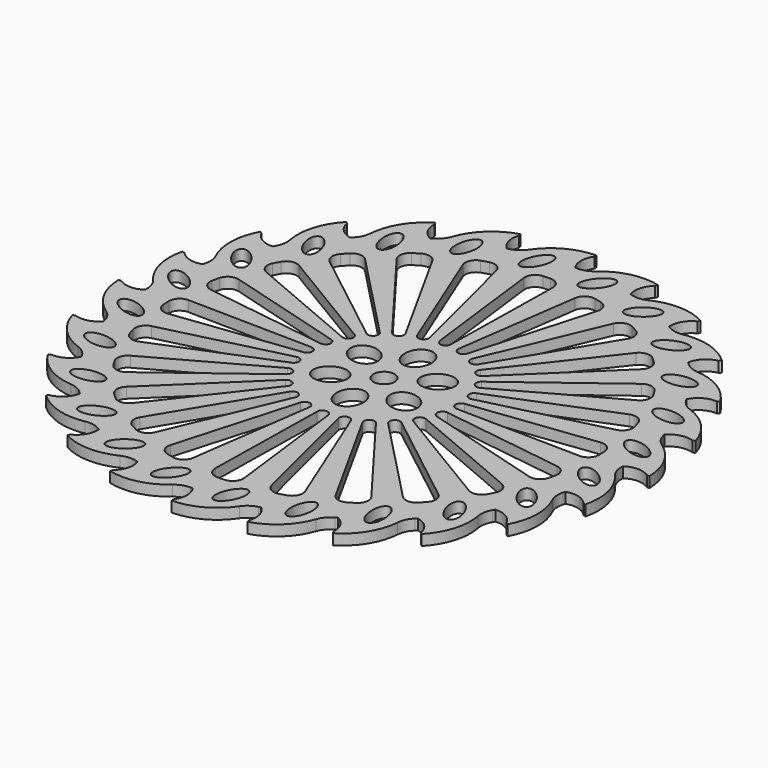
from build123d import *

# Parameters (mm, degrees)
F0_R      = 50
F1_DEPTH  = 2
F2_R      = 2
F3_DEPTH  = 4
F4_R      = 50
F5_DEPTH  = 2
F7_DEPTH  = 25
F9_DEPTH  = 25
F11_DEPTH = 25


with BuildPart() as f1:
    # F0 (on Top) → F1 (new body)
    with BuildSketch(Plane.XY):
        Circle(F0_R)
    extrude(amount=F1_DEPTH)

    # F2 (on Top) → F3 (join)
    with BuildSketch(Plane.XY):
        with BuildLine():
            Line((0, 49.5), (0, 50))
            ThreePointArc((0, 50), (-5.0415435576, 48.6856723741), (-8.9127772699, 45.1988158964))
            ThreePointArc((-8.9127772699, 45.1988158964), (-9.919005248, 44.1787587407), (-11.2201616661, 43.5787559734))
            ThreePointArc((-11.2201616661, 43.5787559734), (-11.4336467176, 43.5232319887), (-11.6468570296, 43.466662183))
            ThreePointArc((-11.6468570296, 43.466662183), (-12.8984037846, 45.4606826466), (-12.8115427326, 47.8133284013))
            Line((-12.8115427326, 47.8133284013), (-12.9409522551, 48.2962913145))
            ThreePointArc((-12.9409522551, 48.2962913145), (-17.4705363607, 45.721900827), (-20.307396119, 41.3519070898))
            ThreePointArc((-20.307396119, 41.3519070898), (-21.0153274912, 40.1061765743), (-22.1168559362, 39.1898543439))
            ThreePointArc((-22.1168559362, 39.1898543439), (-22.3086959962, 39.0809682959), (-22.5, 38.9711431703))
            ThreePointArc((-22.5, 38.9711431703), (-24.2249918058, 40.5732948982), (-24.75, 42.8682574873))
            Line((-24.75, 42.8682574873), (-25, 43.3012701892))
            ThreePointArc((-25, 43.3012701892), (-28.7089409822, 39.6422572975), (-30.3180994822, 34.6869341523))
            ThreePointArc((-30.3180994822, 34.6869341523), (-30.6794898954, 33.3004247531), (-31.5063230241, 32.1302289052))
            ThreePointArc((-31.5063230241, 32.1302289052), (-31.6634445096, 31.9754011982), (-31.8198051534, 31.8198051534))
            ThreePointArc((-31.8198051534, 31.8198051534), (-33.9006866691, 32.9209041531), (-35.0017856687, 35.0017856687))
            Line((-35.0017856687, 35.0017856687), (-35.3553390593, 35.3553390593))
            ThreePointArc((-35.3553390593, 35.3553390593), (-37.9908787196, 30.8610594451), (-38.2626744687, 25.6581039752))
            ThreePointArc((-38.2626744687, 25.6581039752), (-38.2528957634, 24.2253040164), (-38.7486862645, 22.8809814643))
            ThreePointArc((-38.7486862645, 22.8809814643), (-38.860381606, 22.6907633507), (-38.9711431703, 22.5))
            ThreePointArc((-38.9711431703, 22.5), (-41.2661057594, 23.0250081942), (-42.8682574873, 24.75))
            Line((-42.8682574873, 24.75), (-43.3012701892, 25))
            ThreePointArc((-43.3012701892, 25), (-44.6838008551, 19.9767313919), (-43.5997114222, 14.8807164142))
            ThreePointArc((-43.5997114222, 14.8807164142), (-43.2194300011, 13.4992688453), (-43.3503905713, 12.0724329493))
            ThreePointArc((-43.3503905713, 12.0724329493), (-43.4090479158, 11.859787479), (-43.466662183, 11.6468570296))
            ThreePointArc((-43.466662183, 11.6468570296), (-45.8193079377, 11.5599959776), (-47.8133284013, 12.8115427326))
            Line((-47.8133284013, 12.8115427326), (-48.2962913145, 12.9409522551))
            ThreePointArc((-48.2962913145, 12.9409522551), (-48.3315958058, 7.7310221074), (-45.9655000942, 3.0892326211))
            ThreePointArc((-45.9655000942, 3.0892326211), (-45.2406315077, 1.8532808109), (-44.9978374005, 0.4411680794))
            ThreePointArc((-44.9978374005, 0.4411680794), (-44.9994593469, 0.2205866899), (-45, 0))
            ThreePointArc((-45, 0), (-47.25, -0.6928108612), (-49.5, 0))
            Line((-49.5, 0), (-50, 0))
            ThreePointArc((-50, 0), (-48.6856723741, -5.0415435576), (-45.1988158964, -8.9127772699))
            ThreePointArc((-45.1988158964, -8.9127772699), (-44.1787587407, -9.919005248), (-43.5787559734, -11.2201616661))
            ThreePointArc((-43.5787559734, -11.2201616661), (-43.5232319887, -11.4336467176), (-43.466662183, -11.6468570296))
            ThreePointArc((-43.466662183, -11.6468570296), (-45.4606826466, -12.8984037846), (-47.8133284013, -12.8115427326))
            Line((-47.8133284013, -12.8115427326), (-48.2962913145, -12.9409522551))
            ThreePointArc((-48.2962913145, -12.9409522551), (-45.721900827, -17.4705363607), (-41.3519070898, -20.307396119))
            ThreePointArc((-41.3519070898, -20.307396119), (-40.1061765743, -21.0153274912), (-39.1898543439, -22.1168559362))
            ThreePointArc((-39.1898543439, -22.1168559362), (-39.0809682959, -22.3086959962), (-38.9711431703, -22.5))
            ThreePointArc((-38.9711431703, -22.5), (-40.5732948982, -24.2249918058), (-42.8682574873, -24.75))
            Line((-42.8682574873, -24.75), (-43.3012701892, -25))
            ThreePointArc((-43.3012701892, -25), (-39.6422572975, -28.7089409822), (-34.6869341523, -30.3180994822))
            ThreePointArc((-34.6869341523, -30.3180994822), (-33.3004247531, -30.6794898954), (-32.1302289052, -31.5063230241))
            ThreePointArc((-32.1302289052, -31.5063230241), (-31.9754011982, -31.6634445096), (-31.8198051534, -31.8198051534))
            ThreePointArc((-31.8198051534, -31.8198051534), (-32.9209041531, -33.9006866691), (-35.0017856687, -35.0017856687))
            Line((-35.0017856687, -35.0017856687), (-35.3553390593, -35.3553390593))
            ThreePointArc((-35.3553390593, -35.3553390593), (-30.8610594451, -37.9908787196), (-25.6581039752, -38.2626744687))
            ThreePointArc((-25.6581039752, -38.2626744687), (-24.2253040164, -38.2528957634), (-22.8809814643, -38.7486862645))
            ThreePointArc((-22.8809814643, -38.7486862645), (-22.6907633507, -38.860381606), (-22.5, -38.9711431703))
            ThreePointArc((-22.5, -38.9711431703), (-23.0250081942, -41.2661057594), (-24.75, -42.8682574873))
            Line((-24.75, -42.8682574873), (-25, -43.3012701892))
            ThreePointArc((-25, -43.3012701892), (-19.9767313919, -44.6838008551), (-14.8807164142, -43.5997114222))
            ThreePointArc((-14.8807164142, -43.5997114222), (-13.4992688453, -43.2194300011), (-12.0724329493, -43.3503905713))
            ThreePointArc((-12.0724329493, -43.3503905713), (-11.859787479, -43.4090479158), (-11.6468570296, -43.466662183))
            ThreePointArc((-11.6468570296, -43.466662183), (-11.5599959776, -45.8193079377), (-12.8115427326, -47.8133284013))
            Line((-12.8115427326, -47.8133284013), (-12.9409522551, -48.2962913145))
            ThreePointArc((-12.9409522551, -48.2962913145), (-7.7310221074, -48.3315958058), (-3.0892326211, -45.9655000942))
            ThreePointArc((-3.0892326211, -45.9655000942), (-1.8532808109, -45.2406315077), (-0.4411680794, -44.9978374005))
            ThreePointArc((-0.4411680794, -44.9978374005), (-0.2205866899, -44.9994593469), (0, -45))
            ThreePointArc((0, -45), (0.6928108612, -47.25), (0, -49.5))
            Line((0, -49.5), (0, -50))
            ThreePointArc((0, -50), (5.0415435576, -48.6856723741), (8.9127772699, -45.1988158964))
            ThreePointArc((8.9127772699, -45.1988158964), (9.919005248, -44.1787587407), (11.2201616661, -43.5787559734))
            ThreePointArc((11.2201616661, -43.5787559734), (11.4336467176, -43.5232319887), (11.6468570296, -43.466662183))
            ThreePointArc((11.6468570296, -43.466662183), (12.8984037846, -45.4606826466), (12.8115427326, -47.8133284013))
            Line((12.8115427326, -47.8133284013), (12.9409522551, -48.2962913145))
            ThreePointArc((12.9409522551, -48.2962913145), (17.4705363607, -45.721900827), (20.307396119, -41.3519070898))
            ThreePointArc((20.307396119, -41.3519070898), (21.0153274912, -40.1061765743), (22.1168559362, -39.1898543439))
            ThreePointArc((22.1168559362, -39.1898543439), (22.3086959962, -39.0809682959), (22.5, -38.9711431703))
            ThreePointArc((22.5, -38.9711431703), (24.2249918058, -40.5732948982), (24.75, -42.8682574873))
            Line((24.75, -42.8682574873), (25, -43.3012701892))
            ThreePointArc((25, -43.3012701892), (28.7089409822, -39.6422572975), (30.3180994822, -34.6869341523))
            ThreePointArc((30.3180994822, -34.6869341523), (30.6794898954, -33.3004247531), (31.5063230241, -32.1302289052))
            ThreePointArc((31.5063230241, -32.1302289052), (31.6634445096, -31.9754011982), (31.8198051534, -31.8198051534))
            ThreePointArc((31.8198051534, -31.8198051534), (33.9006866691, -32.9209041531), (35.0017856687, -35.0017856687))
            Line((35.0017856687, -35.0017856687), (35.3553390593, -35.3553390593))
            ThreePointArc((35.3553390593, -35.3553390593), (37.9908787196, -30.8610594451), (38.2626744687, -25.6581039752))
            ThreePointArc((38.2626744687, -25.6581039752), (38.2528957634, -24.2253040164), (38.7486862645, -22.8809814643))
            ThreePointArc((38.7486862645, -22.8809814643), (38.860381606, -22.6907633507), (38.9711431703, -22.5))
            ThreePointArc((38.9711431703, -22.5), (41.2661057594, -23.0250081942), (42.8682574873, -24.75))
            Line((42.8682574873, -24.75), (43.3012701892, -25))
            ThreePointArc((43.3012701892, -25), (44.6838008551, -19.9767313919), (43.5997114222, -14.8807164142))
            ThreePointArc((43.5997114222, -14.8807164142), (43.2194300011, -13.4992688453), (43.3503905713, -12.0724329493))
            ThreePointArc((43.3503905713, -12.0724329493), (43.4090479158, -11.859787479), (43.466662183, -11.6468570296))
            ThreePointArc((43.466662183, -11.6468570296), (45.8193079377, -11.5599959776), (47.8133284013, -12.8115427326))
            Line((47.8133284013, -12.8115427326), (48.2962913145, -12.9409522551))
            ThreePointArc((48.2962913145, -12.9409522551), (48.3315958058, -7.7310221074), (45.9655000942, -3.0892326211))
            ThreePointArc((45.9655000942, -3.0892326211), (45.2406315077, -1.8532808109), (44.9978374005, -0.4411680794))
            ThreePointArc((44.9978374005, -0.4411680794), (44.9994593469, -0.2205866899), (45, 0))
            ThreePointArc((45, 0), (47.25, 0.6928108612), (49.5, 0))
            Line((49.5, 0), (50, 0))
            ThreePointArc((50, 0), (48.6856723741, 5.0415435576), (45.1988158964, 8.9127772699))
            ThreePointArc((45.1988158964, 8.9127772699), (44.1787587407, 9.919005248), (43.5787559734, 11.2201616661))
            ThreePointArc((43.5787559734, 11.2201616661), (43.5232319887, 11.4336467176), (43.466662183, 11.6468570296))
            ThreePointArc((43.466662183, 11.6468570296), (45.4606826466, 12.8984037846), (47.8133284013, 12.8115427326))
            Line((47.8133284013, 12.8115427326), (48.2962913145, 12.9409522551))
            ThreePointArc((48.2962913145, 12.9409522551), (45.721900827, 17.4705363607), (41.3519070898, 20.307396119))
            ThreePointArc((41.3519070898, 20.307396119), (40.1061765743, 21.0153274912), (39.1898543439, 22.1168559362))
            ThreePointArc((39.1898543439, 22.1168559362), (39.0809682959, 22.3086959962), (38.9711431703, 22.5))
            ThreePointArc((38.9711431703, 22.5), (40.5732948982, 24.2249918058), (42.8682574873, 24.75))
            Line((42.8682574873, 24.75), (43.3012701892, 25))
            ThreePointArc((43.3012701892, 25), (39.6422572975, 28.7089409822), (34.6869341523, 30.3180994822))
            ThreePointArc((34.6869341523, 30.3180994822), (33.3004247531, 30.6794898954), (32.1302289052, 31.5063230241))
            ThreePointArc((32.1302289052, 31.5063230241), (31.9754011982, 31.6634445096), (31.8198051534, 31.8198051534))
            ThreePointArc((31.8198051534, 31.8198051534), (32.9209041531, 33.9006866691), (35.0017856687, 35.0017856687))
            Line((35.0017856687, 35.0017856687), (35.3553390593, 35.3553390593))
            ThreePointArc((35.3553390593, 35.3553390593), (30.8610594451, 37.9908787196), (25.6581039752, 38.2626744687))
            ThreePointArc((25.6581039752, 38.2626744687), (24.2253040164, 38.2528957634), (22.8809814643, 38.7486862645))
            ThreePointArc((22.8809814643, 38.7486862645), (22.6907633507, 38.860381606), (22.5, 38.9711431703))
            ThreePointArc((22.5, 38.9711431703), (23.0250081942, 41.2661057594), (24.75, 42.8682574873))
            Line((24.75, 42.8682574873), (25, 43.3012701892))
            ThreePointArc((25, 43.3012701892), (19.9767313919, 44.6838008551), (14.8807164142, 43.5997114222))
            ThreePointArc((14.8807164142, 43.5997114222), (13.4992688453, 43.2194300011), (12.0724329493, 43.3503905713))
            ThreePointArc((12.0724329493, 43.3503905713), (11.859787479, 43.4090479158), (11.6468570296, 43.466662183))
            ThreePointArc((11.6468570296, 43.466662183), (11.5599959776, 45.8193079377), (12.8115427326, 47.8133284013))
            Line((12.8115427326, 47.8133284013), (12.9409522551, 48.2962913145))
            ThreePointArc((12.9409522551, 48.2962913145), (7.7310221074, 48.3315958058), (3.0892326211, 45.9655000942))
            ThreePointArc((3.0892326211, 45.9655000942), (1.8532808109, 45.2406315077), (0.4411680794, 44.9978374005))
            ThreePointArc((0.4411680794, 44.9978374005), (0.2205866899, 44.9994593469), (0, 45))
            ThreePointArc((0, 45), (-0.6928108612, 47.25), (0, 49.5))
        make_face()
        Circle(F2_R, mode=Mode.SUBTRACT)
    extrude(amount=F3_DEPTH)

    # F4 (on face) → F5 (cut)
    with BuildSketch(Plane(origin=(0, 0, 0), x_dir=(1, 0, 0), z_dir=(0, 0, -1))):
        Circle(F4_R)
    extrude(amount=-F5_DEPTH, mode=Mode.SUBTRACT)

    # F6 (on face) → F7 (cut)
    with BuildSketch(Plane.XY.offset(4)):
        with BuildLine():
            ThreePointArc((-1.9708007397, 39.9514198051), (-3.4023744892, 39.2417742011), (-3.857353006, 37.710110128))
            Line((-3.857353006, 37.710110128), (-0.9925461516, 14.3781306566))
            ThreePointArc((-0.9925461516, 14.3781306566), (0.0523359562, 13.5013704652), (0.9998476952, 14.4825475936))
            Line((0.9998476952, 14.4825475936), (1.4096571241, 37.9605140537))
            ThreePointArc((1.4096571241, 37.9605140537), (0.8255360657, 39.4082703488), (-0.6210929118, 39.9951777543))
            ThreePointArc((-0.6210929118, 39.9951777543), (-1.2961314998, 39.9789950241), (-1.9708007397, 39.9514198051))
        make_face()
        with BuildLine():
            ThreePointArc((-10.9514433991, 38.4716244455), (-11.5992922062, 38.2812802857), (-12.2438356574, 38.0800274211))
            ThreePointArc((-12.2438356574, 38.0800274211), (-13.4429599167, 37.0240438539), (-13.4860115837, 35.4268128632))
            Line((-13.4860115837, 35.4268128632), (-4.6800600086, 13.6313178878))
            ThreePointArc((-4.6800600086, 13.6313178878), (-3.4438591596, 13.0548679649), (-2.7825804277, 14.2478463768))
            Line((-2.7825804277, 14.2478463768), (-8.4632797766, 37.0318870144))
            ThreePointArc((-8.4632797766, 37.0318870144), (-9.4022042945, 38.2791305555), (-10.9514433991, 38.4716244455))
        make_face()
        with BuildLine():
            ThreePointArc((-20.5354711169, 34.3262935082), (-21.1119803175, 33.9747595587), (-21.682473409, 33.6135440986))
            ThreePointArc((-21.682473409, 33.6135440986), (-22.5674298414, 32.2831861031), (-22.1956207586, 30.7292368474))
            Line((-22.1956207586, 30.7292368474), (-8.04863551, 11.9555533317))
            ThreePointArc((-8.04863551, 11.9555533317), (-6.705360965, 11.7186977869), (-6.3753802929, 13.0421779751))
            Line((-6.3753802929, 13.0421779751), (-17.7594581467, 33.5795980732))
            ThreePointArc((-17.7594581467, 33.5795980732), (-18.9891999698, 34.5413312741), (-20.5354711169, 34.3262935082))
        make_face()
        with BuildLine():
            ThreePointArc((-28.7200404145, 27.8416823951), (-29.1859218594, 27.3529151137), (-29.6434864297, 26.8563532948))
            ThreePointArc((-29.6434864297, 26.8563532948), (-30.1539667168, 25.3422825699), (-29.3926350588, 23.9375141228))
            Line((-29.3926350588, 23.9375141228), (-10.8687098025, 9.4650375736))
            ThreePointArc((-10.8687098025, 9.4650375736), (-9.5099035017, 9.5839177208), (-9.5337085269, 10.9477066977))
            Line((-9.5337085269, 10.9477066977), (-25.8453587931, 27.8389150163))
            ThreePointArc((-25.8453587931, 27.8389150163), (-27.2821130483, 28.4495973486), (-28.7200404145, 27.8416823951))
        make_face()
        with BuildLine():
            ThreePointArc((-34.94738642, 19.4597066374), (-35.2708910585, 18.8670147066), (-35.5843448384, 18.2689463961))
            ThreePointArc((-35.5843448384, 18.2689463961), (-35.6855605923, 16.6743443597), (-34.5865898534, 15.5144893694))
            Line((-34.5865898534, 15.5144893694), (-12.9480994834, 6.3294951465))
            ThreePointArc((-12.9480994834, 6.3294951465), (-11.6663618307, 6.7960095003), (-12.04233028, 8.1071673007))
            Line((-12.04233028, 8.1071673007), (-32.1699409491, 20.2010559069))
            ThreePointArc((-32.1699409491, 20.2010559069), (-33.7157952084, 20.419070379), (-34.94738642, 19.4597066374))
        make_face()
        with BuildLine():
            ThreePointArc((-38.7931257942, 9.751584031), (-38.9522073199, 9.0953584264), (-39.1001889522, 8.4365409915))
            ThreePointArc((-39.1001889522, 8.4365409915), (-38.7852424866, 6.870077137), (-37.4235257065, 6.0341778044))
            Line((-37.4235257065, 6.0341778044), (-14.1450975822, 2.7626080852))
            ThreePointArc((-14.1450975822, 2.7626080852), (-13.0277768805, 3.5449644632), (-13.7302871254, 4.7141378499))
            Line((-13.7302871254, 4.7141378499), (-36.3021947929, 11.1865282214))
            ThreePointArc((-36.3021947929, 11.1865282214), (-37.8518016431, 10.9970175072), (-38.7931257942, 9.751584031))
        make_face()
        with BuildLine():
            ThreePointArc((-39.9951777543, -0.6210929118), (-39.9789950241, -1.2961314998), (-39.9514198051, -1.9708007397))
            ThreePointArc((-39.9514198051, -1.9708007397), (-39.2417742011, -3.4023744892), (-37.710110128, -3.857353006))
            Line((-37.710110128, -3.857353006), (-14.3781306566, -0.9925461516))
            ThreePointArc((-14.3781306566, -0.9925461516), (-13.5013704652, 0.0523359562), (-14.4825475936, 0.9998476952))
            Line((-14.4825475936, 0.9998476952), (-37.9605140537, 1.4096571241))
            ThreePointArc((-37.9605140537, 1.4096571241), (-39.4082703488, 0.8255360657), (-39.9951777543, -0.6210929118))
        make_face()
        with BuildLine():
            ThreePointArc((-38.4716244455, -10.9514433991), (-38.2812802857, -11.5992922062), (-38.0800274211, -12.2438356574))
            ThreePointArc((-38.0800274211, -12.2438356574), (-37.0240438539, -13.4429599167), (-35.4268128632, -13.4860115837))
            Line((-35.4268128632, -13.4860115837), (-13.6313178878, -4.6800600086))
            ThreePointArc((-13.6313178878, -4.6800600086), (-13.0548679649, -3.4438591596), (-14.2478463768, -2.7825804277))
            Line((-14.2478463768, -2.7825804277), (-37.0318870144, -8.4632797766))
            ThreePointArc((-37.0318870144, -8.4632797766), (-38.2791305555, -9.4022042945), (-38.4716244455, -10.9514433991))
        make_face()
        with BuildLine():
            ThreePointArc((-34.3262935082, -20.5354711169), (-33.9747595587, -21.1119803175), (-33.6135440986, -21.682473409))
            ThreePointArc((-33.6135440986, -21.682473409), (-32.2831861031, -22.5674298414), (-30.7292368474, -22.1956207586))
            Line((-30.7292368474, -22.1956207586), (-11.9555533317, -8.04863551))
            ThreePointArc((-11.9555533317, -8.04863551), (-11.7186977869, -6.705360965), (-13.0421779751, -6.3753802929))
            Line((-13.0421779751, -6.3753802929), (-33.5795980732, -17.7594581467))
            ThreePointArc((-33.5795980732, -17.7594581467), (-34.5413312741, -18.9891999698), (-34.3262935082, -20.5354711169))
        make_face()
        with BuildLine():
            ThreePointArc((-27.8416823951, -28.7200404145), (-27.3529151137, -29.1859218594), (-26.8563532948, -29.6434864297))
            ThreePointArc((-26.8563532948, -29.6434864297), (-25.3422825699, -30.1539667168), (-23.9375141228, -29.3926350588))
            Line((-23.9375141228, -29.3926350588), (-9.4650375736, -10.8687098025))
            ThreePointArc((-9.4650375736, -10.8687098025), (-9.5839177208, -9.5099035017), (-10.9477066977, -9.5337085269))
            Line((-10.9477066977, -9.5337085269), (-27.8389150163, -25.8453587931))
            ThreePointArc((-27.8389150163, -25.8453587931), (-28.4495973486, -27.2821130483), (-27.8416823951, -28.7200404145))
        make_face()
        with BuildLine():
            ThreePointArc((-19.4597066374, -34.94738642), (-18.8670147066, -35.2708910585), (-18.2689463961, -35.5843448384))
            ThreePointArc((-18.2689463961, -35.5843448384), (-16.6743443597, -35.6855605923), (-15.5144893694, -34.5865898534))
            Line((-15.5144893694, -34.5865898534), (-6.3294951465, -12.9480994834))
            ThreePointArc((-6.3294951465, -12.9480994834), (-6.7960095003, -11.6663618307), (-8.1071673007, -12.04233028))
            Line((-8.1071673007, -12.04233028), (-20.2010559069, -32.1699409491))
            ThreePointArc((-20.2010559069, -32.1699409491), (-20.419070379, -33.7157952084), (-19.4597066374, -34.94738642))
        make_face()
        with BuildLine():
            ThreePointArc((-9.751584031, -38.7931257942), (-9.0953584264, -38.9522073199), (-8.4365409915, -39.1001889522))
            ThreePointArc((-8.4365409915, -39.1001889522), (-6.870077137, -38.7852424866), (-6.0341778044, -37.4235257065))
            Line((-6.0341778044, -37.4235257065), (-2.7626080852, -14.1450975822))
            ThreePointArc((-2.7626080852, -14.1450975822), (-3.5449644632, -13.0277768805), (-4.7141378499, -13.7302871254))
            Line((-4.7141378499, -13.7302871254), (-11.1865282214, -36.3021947929))
            ThreePointArc((-11.1865282214, -36.3021947929), (-10.9970175072, -37.8518016431), (-9.751584031, -38.7931257942))
        make_face()
        with BuildLine():
            ThreePointArc((0.6210929118, -39.9951777543), (1.2961314998, -39.9789950241), (1.9708007397, -39.9514198051))
            ThreePointArc((1.9708007397, -39.9514198051), (3.4023744892, -39.2417742011), (3.857353006, -37.710110128))
            Line((3.857353006, -37.710110128), (0.9925461516, -14.3781306566))
            ThreePointArc((0.9925461516, -14.3781306566), (-0.0523359562, -13.5013704652), (-0.9998476952, -14.4825475936))
            Line((-0.9998476952, -14.4825475936), (-1.4096571241, -37.9605140537))
            ThreePointArc((-1.4096571241, -37.9605140537), (-0.8255360657, -39.4082703488), (0.6210929118, -39.9951777543))
        make_face()
        with BuildLine():
            ThreePointArc((10.9514433991, -38.4716244455), (11.5992922062, -38.2812802857), (12.2438356574, -38.0800274211))
            ThreePointArc((12.2438356574, -38.0800274211), (13.4429599167, -37.0240438539), (13.4860115837, -35.4268128632))
            Line((13.4860115837, -35.4268128632), (4.6800600086, -13.6313178878))
            ThreePointArc((4.6800600086, -13.6313178878), (3.4438591596, -13.0548679649), (2.7825804277, -14.2478463768))
            Line((2.7825804277, -14.2478463768), (8.4632797766, -37.0318870144))
            ThreePointArc((8.4632797766, -37.0318870144), (9.4022042945, -38.2791305555), (10.9514433991, -38.4716244455))
        make_face()
        with BuildLine():
            ThreePointArc((20.5354711169, -34.3262935082), (21.1119803175, -33.9747595587), (21.682473409, -33.6135440986))
            ThreePointArc((21.682473409, -33.6135440986), (22.5674298414, -32.2831861031), (22.1956207586, -30.7292368474))
            Line((22.1956207586, -30.7292368474), (8.04863551, -11.9555533317))
            ThreePointArc((8.04863551, -11.9555533317), (6.705360965, -11.7186977869), (6.3753802929, -13.0421779751))
            Line((6.3753802929, -13.0421779751), (17.7594581467, -33.5795980732))
            ThreePointArc((17.7594581467, -33.5795980732), (18.9891999698, -34.5413312741), (20.5354711169, -34.3262935082))
        make_face()
        with BuildLine():
            ThreePointArc((28.7200404145, -27.8416823951), (29.1859218594, -27.3529151137), (29.6434864297, -26.8563532948))
            ThreePointArc((29.6434864297, -26.8563532948), (30.1539667168, -25.3422825699), (29.3926350588, -23.9375141228))
            Line((29.3926350588, -23.9375141228), (10.8687098025, -9.4650375736))
            ThreePointArc((10.8687098025, -9.4650375736), (9.5099035017, -9.5839177208), (9.5337085269, -10.9477066977))
            Line((9.5337085269, -10.9477066977), (25.8453587931, -27.8389150163))
            ThreePointArc((25.8453587931, -27.8389150163), (27.2821130483, -28.4495973486), (28.7200404145, -27.8416823951))
        make_face()
        with BuildLine():
            ThreePointArc((34.94738642, -19.4597066374), (35.2708910585, -18.8670147066), (35.5843448384, -18.2689463961))
            ThreePointArc((35.5843448384, -18.2689463961), (35.6855605923, -16.6743443597), (34.5865898534, -15.5144893694))
            Line((34.5865898534, -15.5144893694), (12.9480994834, -6.3294951465))
            ThreePointArc((12.9480994834, -6.3294951465), (11.6663618307, -6.7960095003), (12.04233028, -8.1071673007))
            Line((12.04233028, -8.1071673007), (32.1699409491, -20.2010559069))
            ThreePointArc((32.1699409491, -20.2010559069), (33.7157952084, -20.419070379), (34.94738642, -19.4597066374))
        make_face()
        with BuildLine():
            ThreePointArc((38.7931257942, -9.751584031), (38.9522073199, -9.0953584264), (39.1001889522, -8.4365409915))
            ThreePointArc((39.1001889522, -8.4365409915), (38.7852424866, -6.870077137), (37.4235257065, -6.0341778044))
            Line((37.4235257065, -6.0341778044), (14.1450975822, -2.7626080852))
            ThreePointArc((14.1450975822, -2.7626080852), (13.0277768805, -3.5449644632), (13.7302871254, -4.7141378499))
            Line((13.7302871254, -4.7141378499), (36.3021947929, -11.1865282214))
            ThreePointArc((36.3021947929, -11.1865282214), (37.8518016431, -10.9970175072), (38.7931257942, -9.751584031))
        make_face()
        with BuildLine():
            ThreePointArc((39.9951777543, 0.6210929118), (39.9789950241, 1.2961314998), (39.9514198051, 1.9708007397))
            ThreePointArc((39.9514198051, 1.9708007397), (39.2417742011, 3.4023744892), (37.710110128, 3.857353006))
            Line((37.710110128, 3.857353006), (14.3781306566, 0.9925461516))
            ThreePointArc((14.3781306566, 0.9925461516), (13.5013704652, -0.0523359562), (14.4825475936, -0.9998476952))
            Line((14.4825475936, -0.9998476952), (37.9605140537, -1.4096571241))
            ThreePointArc((37.9605140537, -1.4096571241), (39.4082703488, -0.8255360657), (39.9951777543, 0.6210929118))
        make_face()
        with BuildLine():
            ThreePointArc((38.4716244455, 10.9514433991), (38.2812802857, 11.5992922062), (38.0800274211, 12.2438356574))
            ThreePointArc((38.0800274211, 12.2438356574), (37.0240438539, 13.4429599167), (35.4268128632, 13.4860115837))
            Line((35.4268128632, 13.4860115837), (13.6313178878, 4.6800600086))
            ThreePointArc((13.6313178878, 4.6800600086), (13.0548679649, 3.4438591596), (14.2478463768, 2.7825804277))
            Line((14.2478463768, 2.7825804277), (37.0318870144, 8.4632797766))
            ThreePointArc((37.0318870144, 8.4632797766), (38.2791305555, 9.4022042945), (38.4716244455, 10.9514433991))
        make_face()
        with BuildLine():
            ThreePointArc((34.3262935082, 20.5354711169), (33.9747595587, 21.1119803175), (33.6135440986, 21.682473409))
            ThreePointArc((33.6135440986, 21.682473409), (32.2831861031, 22.5674298414), (30.7292368474, 22.1956207586))
            Line((30.7292368474, 22.1956207586), (11.9555533317, 8.04863551))
            ThreePointArc((11.9555533317, 8.04863551), (11.7186977869, 6.705360965), (13.0421779751, 6.3753802929))
            Line((13.0421779751, 6.3753802929), (33.5795980732, 17.7594581467))
            ThreePointArc((33.5795980732, 17.7594581467), (34.5413312741, 18.9891999698), (34.3262935082, 20.5354711169))
        make_face()
        with BuildLine():
            ThreePointArc((27.8416823951, 28.7200404145), (27.3529151137, 29.1859218594), (26.8563532948, 29.6434864297))
            ThreePointArc((26.8563532948, 29.6434864297), (25.3422825699, 30.1539667168), (23.9375141228, 29.3926350588))
            Line((23.9375141228, 29.3926350588), (9.4650375736, 10.8687098025))
            ThreePointArc((9.4650375736, 10.8687098025), (9.5839177208, 9.5099035017), (10.9477066977, 9.5337085269))
            Line((10.9477066977, 9.5337085269), (27.8389150163, 25.8453587931))
            ThreePointArc((27.8389150163, 25.8453587931), (28.4495973486, 27.2821130483), (27.8416823951, 28.7200404145))
        make_face()
        with BuildLine():
            ThreePointArc((19.4597066374, 34.94738642), (18.8670147066, 35.2708910585), (18.2689463961, 35.5843448384))
            ThreePointArc((18.2689463961, 35.5843448384), (16.6743443597, 35.6855605923), (15.5144893694, 34.5865898534))
            Line((15.5144893694, 34.5865898534), (6.3294951465, 12.9480994834))
            ThreePointArc((6.3294951465, 12.9480994834), (6.7960095003, 11.6663618307), (8.1071673007, 12.04233028))
            Line((8.1071673007, 12.04233028), (20.2010559069, 32.1699409491))
            ThreePointArc((20.2010559069, 32.1699409491), (20.419070379, 33.7157952084), (19.4597066374, 34.94738642))
        make_face()
        with BuildLine():
            ThreePointArc((9.751584031, 38.7931257942), (9.0953584264, 38.9522073199), (8.4365409915, 39.1001889522))
            ThreePointArc((8.4365409915, 39.1001889522), (6.870077137, 38.7852424866), (6.0341778044, 37.4235257065))
            Line((6.0341778044, 37.4235257065), (2.7626080852, 14.1450975822))
            ThreePointArc((2.7626080852, 14.1450975822), (3.5449644632, 13.0277768805), (4.7141378499, 13.7302871254))
            Line((4.7141378499, 13.7302871254), (11.1865282214, 36.3021947929))
            ThreePointArc((11.1865282214, 36.3021947929), (10.9970175072, 37.8518016431), (9.751584031, 38.7931257942))
        make_face()
    extrude(amount=-F7_DEPTH, mode=Mode.SUBTRACT)

    # F8 (on face) → F9 (cut)
    with BuildSketch(Plane.XY.offset(4)):
        with BuildLine():
            add(Edge.make_bspline(
                [(0, 5), (4.3301270189, 5), (2.1650635095, 9.5), (0, 14), (-2.1650635095, 9.5), (-4.3301270189, 5), (0, 5)],
                knots=[0, 0, 0, 2.0943951024, 2.0943951024, 4.1887902048, 4.1887902048, 6.2831853072, 6.2831853072, 6.2831853072], degree=2, weights=[1, 0.5, 1, 0.5, 1, 0.5, 1]))
        make_face()
        with BuildLine():
            add(Edge.make_bspline(
                [(-4.3301270189, 2.5), (-2.1650635095, 6.25), (-7.1447095812, 6.625), (-12.124355653, 7), (-9.3097730907, 2.875), (-6.4951905284, -1.25), (-4.3301270189, 2.5)],
                knots=[0, 0, 0, 2.0943951024, 2.0943951024, 4.1887902048, 4.1887902048, 6.2831853072, 6.2831853072, 6.2831853072], degree=2, weights=[1, 0.5, 1, 0.5, 1, 0.5, 1]))
        make_face()
        with BuildLine():
            add(Edge.make_bspline(
                [(-4.3301270189, -2.5), (-6.4951905284, 1.25), (-9.3097730907, -2.875), (-12.124355653, -7), (-7.1447095812, -6.625), (-2.1650635095, -6.25), (-4.3301270189, -2.5)],
                knots=[0, 0, 0, 2.0943951024, 2.0943951024, 4.1887902048, 4.1887902048, 6.2831853072, 6.2831853072, 6.2831853072], degree=2, weights=[1, 0.5, 1, 0.5, 1, 0.5, 1]))
        make_face()
        with BuildLine():
            add(Edge.make_bspline(
                [(0, -5), (-4.3301270189, -5), (-2.1650635095, -9.5), (0, -14), (2.1650635095, -9.5), (4.3301270189, -5), (0, -5)],
                knots=[0, 0, 0, 2.0943951024, 2.0943951024, 4.1887902048, 4.1887902048, 6.2831853072, 6.2831853072, 6.2831853072], degree=2, weights=[1, 0.5, 1, 0.5, 1, 0.5, 1]))
        make_face()
        with BuildLine():
            add(Edge.make_bspline(
                [(4.3301270189, -2.5), (2.1650635095, -6.25), (7.1447095812, -6.625), (12.124355653, -7), (9.3097730907, -2.875), (6.4951905284, 1.25), (4.3301270189, -2.5)],
                knots=[0, 0, 0, 2.0943951024, 2.0943951024, 4.1887902048, 4.1887902048, 6.2831853072, 6.2831853072, 6.2831853072], degree=2, weights=[1, 0.5, 1, 0.5, 1, 0.5, 1]))
        make_face()
        with BuildLine():
            add(Edge.make_bspline(
                [(4.3301270189, 2.5), (6.4951905284, -1.25), (9.3097730907, 2.875), (12.124355653, 7), (7.1447095812, 6.625), (2.1650635095, 6.25), (4.3301270189, 2.5)],
                knots=[0, 0, 0, 2.0943951024, 2.0943951024, 4.1887902048, 4.1887902048, 6.2831853072, 6.2831853072, 6.2831853072], degree=2, weights=[1, 0.5, 1, 0.5, 1, 0.5, 1]))
        make_face()
    extrude(amount=-F9_DEPTH, mode=Mode.SUBTRACT)

    # F10 (on face) → F11 (cut)
    with BuildSketch(Plane.XY.offset(4)):
        with BuildLine():
            add(Edge.make_bspline(
                [(-6.8259396587, 40.3562128722), (-4.4256302231, 39.3619721501), (-3.9037094952, 44.0165504075), (-3.3817887674, 48.6711286648), (-6.3040189308, 45.0107911296), (-9.2262490942, 41.3504535943), (-6.8259396587, 40.3562128722)],
                knots=[0, 0, 0, 2.0943951024, 2.0943951024, 4.1887902048, 4.1887902048, 6.2831853072, 6.2831853072, 6.2831853072], degree=2, weights=[1, 0.5, 1, 0.5, 1, 0.5, 1]))
        make_face()
        with BuildLine():
            add(Edge.make_bspline(
                [(-17.0383078845, 37.2144250801), (-14.4624585753, 36.8753080852), (-15.1630153649, 41.5063684588), (-15.8635721546, 46.1374288325), (-17.7388646742, 41.8454854538), (-19.6141571937, 37.5535420751), (-17.0383078845, 37.2144250801)],
                knots=[0, 0, 0, 2.0943951024, 2.0943951024, 4.1887902048, 4.1887902048, 6.2831853072, 6.2831853072, 6.2831853072], degree=2, weights=[1, 0.5, 1, 0.5, 1, 0.5, 1]))
        make_face()
        with BuildLine():
            add(Edge.make_bspline(
                [(-26.0895435852, 31.5365357185), (-23.513694276, 31.8756527135), (-25.3889867956, 36.1675960922), (-27.2642793152, 40.4595394709), (-27.9648361048, 35.8284790972), (-28.6653928944, 31.1974187236), (-26.0895435852, 31.5365357185)],
                knots=[0, 0, 0, 2.0943951024, 2.0943951024, 4.1887902048, 4.1887902048, 6.2831853072, 6.2831853072, 6.2831853072], degree=2, weights=[1, 0.5, 1, 0.5, 1, 0.5, 1]))
        make_face()
        with BuildLine():
            add(Edge.make_bspline(
                [(-33.3628200056, 23.7094835643), (-30.96251057, 24.7037242865), (-33.8847407334, 28.3640618217), (-36.8069708969, 32.0243993569), (-36.285050169, 27.3698210996), (-35.7631294411, 22.7152428422), (-33.3628200056, 23.7094835643)],
                knots=[0, 0, 0, 2.0943951024, 2.0943951024, 4.1887902048, 4.1887902048, 6.2831853072, 6.2831853072, 6.2831853072], degree=2, weights=[1, 0.5, 1, 0.5, 1, 0.5, 1]))
        make_face()
        with BuildLine():
            add(Edge.make_bspline(
                [(-38.3624753772, 14.266669287), (-36.3012829366, 15.8482778741), (-40.0713055874, 18.6275636119), (-43.8413282383, 21.4068493496), (-42.1324980281, 17.0459550248), (-40.4236678178, 12.6850606999), (-38.3624753772, 14.266669287)],
                knots=[0, 0, 0, 2.0943951024, 2.0943951024, 4.1887902048, 4.1887902048, 6.2831853072, 6.2831853072, 6.2831853072], degree=2, weights=[1, 0.5, 1, 0.5, 1, 0.5, 1]))
        make_face()
        with BuildLine():
            add(Edge.make_bspline(
                [(-40.7477914489, 3.8516050745), (-39.1661828618, 5.9127975152), (-43.5270771866, 7.6216277254), (-47.8879715115, 9.3304579356), (-45.1086857737, 5.5604352848), (-42.329400036, 1.7904126339), (-40.7477914489, 3.8516050745)],
                knots=[0, 0, 0, 2.0943951024, 2.0943951024, 4.1887902048, 4.1887902048, 6.2831853072, 6.2831853072, 6.2831853072], degree=2, weights=[1, 0.5, 1, 0.5, 1, 0.5, 1]))
        make_face()
        with BuildLine():
            add(Edge.make_bspline(
                [(-40.3562128722, -6.8259396587), (-39.3619721501, -4.4256302231), (-44.0165504075, -3.9037094952), (-48.6711286648, -3.3817887674), (-45.0107911296, -6.3040189308), (-41.3504535943, -9.2262490942), (-40.3562128722, -6.8259396587)],
                knots=[0, 0, 0, 2.0943951024, 2.0943951024, 4.1887902048, 4.1887902048, 6.2831853072, 6.2831853072, 6.2831853072], degree=2, weights=[1, 0.5, 1, 0.5, 1, 0.5, 1]))
        make_face()
        with BuildLine():
            add(Edge.make_bspline(
                [(-37.2144250801, -17.0383078845), (-36.8753080852, -14.4624585753), (-41.5063684588, -15.1630153649), (-46.1374288325, -15.8635721546), (-41.8454854538, -17.7388646742), (-37.5535420751, -19.6141571937), (-37.2144250801, -17.0383078845)],
                knots=[0, 0, 0, 2.0943951024, 2.0943951024, 4.1887902048, 4.1887902048, 6.2831853072, 6.2831853072, 6.2831853072], degree=2, weights=[1, 0.5, 1, 0.5, 1, 0.5, 1]))
        make_face()
        with BuildLine():
            add(Edge.make_bspline(
                [(-31.5365357185, -26.0895435852), (-31.8756527135, -23.513694276), (-36.1675960922, -25.3889867956), (-40.4595394709, -27.2642793152), (-35.8284790972, -27.9648361048), (-31.1974187236, -28.6653928944), (-31.5365357185, -26.0895435852)],
                knots=[0, 0, 0, 2.0943951024, 2.0943951024, 4.1887902048, 4.1887902048, 6.2831853072, 6.2831853072, 6.2831853072], degree=2, weights=[1, 0.5, 1, 0.5, 1, 0.5, 1]))
        make_face()
        with BuildLine():
            add(Edge.make_bspline(
                [(-23.7094835643, -33.3628200056), (-24.7037242865, -30.96251057), (-28.3640618217, -33.8847407334), (-32.0243993569, -36.8069708969), (-27.3698210996, -36.285050169), (-22.7152428422, -35.7631294411), (-23.7094835643, -33.3628200056)],
                knots=[0, 0, 0, 2.0943951024, 2.0943951024, 4.1887902048, 4.1887902048, 6.2831853072, 6.2831853072, 6.2831853072], degree=2, weights=[1, 0.5, 1, 0.5, 1, 0.5, 1]))
        make_face()
        with BuildLine():
            add(Edge.make_bspline(
                [(-14.266669287, -38.3624753772), (-15.8482778741, -36.3012829366), (-18.6275636119, -40.0713055874), (-21.4068493496, -43.8413282383), (-17.0459550248, -42.1324980281), (-12.6850606999, -40.4236678178), (-14.266669287, -38.3624753772)],
                knots=[0, 0, 0, 2.0943951024, 2.0943951024, 4.1887902048, 4.1887902048, 6.2831853072, 6.2831853072, 6.2831853072], degree=2, weights=[1, 0.5, 1, 0.5, 1, 0.5, 1]))
        make_face()
        with BuildLine():
            add(Edge.make_bspline(
                [(-3.8516050745, -40.7477914489), (-5.9127975152, -39.1661828618), (-7.6216277254, -43.5270771866), (-9.3304579356, -47.8879715115), (-5.5604352848, -45.1086857737), (-1.7904126339, -42.329400036), (-3.8516050745, -40.7477914489)],
                knots=[0, 0, 0, 2.0943951024, 2.0943951024, 4.1887902048, 4.1887902048, 6.2831853072, 6.2831853072, 6.2831853072], degree=2, weights=[1, 0.5, 1, 0.5, 1, 0.5, 1]))
        make_face()
        with BuildLine():
            add(Edge.make_bspline(
                [(6.8259396587, -40.3562128722), (4.4256302231, -39.3619721501), (3.9037094952, -44.0165504075), (3.3817887674, -48.6711286648), (6.3040189308, -45.0107911296), (9.2262490942, -41.3504535943), (6.8259396587, -40.3562128722)],
                knots=[0, 0, 0, 2.0943951024, 2.0943951024, 4.1887902048, 4.1887902048, 6.2831853072, 6.2831853072, 6.2831853072], degree=2, weights=[1, 0.5, 1, 0.5, 1, 0.5, 1]))
        make_face()
        with BuildLine():
            add(Edge.make_bspline(
                [(17.0383078845, -37.2144250801), (14.4624585753, -36.8753080852), (15.1630153649, -41.5063684588), (15.8635721546, -46.1374288325), (17.7388646742, -41.8454854538), (19.6141571937, -37.5535420751), (17.0383078845, -37.2144250801)],
                knots=[0, 0, 0, 2.0943951024, 2.0943951024, 4.1887902048, 4.1887902048, 6.2831853072, 6.2831853072, 6.2831853072], degree=2, weights=[1, 0.5, 1, 0.5, 1, 0.5, 1]))
        make_face()
        with BuildLine():
            add(Edge.make_bspline(
                [(26.0895435852, -31.5365357185), (23.513694276, -31.8756527135), (25.3889867956, -36.1675960922), (27.2642793152, -40.4595394709), (27.9648361048, -35.8284790972), (28.6653928944, -31.1974187236), (26.0895435852, -31.5365357185)],
                knots=[0, 0, 0, 2.0943951024, 2.0943951024, 4.1887902048, 4.1887902048, 6.2831853072, 6.2831853072, 6.2831853072], degree=2, weights=[1, 0.5, 1, 0.5, 1, 0.5, 1]))
        make_face()
        with BuildLine():
            add(Edge.make_bspline(
                [(33.3628200056, -23.7094835643), (30.96251057, -24.7037242865), (33.8847407334, -28.3640618217), (36.8069708969, -32.0243993569), (36.285050169, -27.3698210996), (35.7631294411, -22.7152428422), (33.3628200056, -23.7094835643)],
                knots=[0, 0, 0, 2.0943951024, 2.0943951024, 4.1887902048, 4.1887902048, 6.2831853072, 6.2831853072, 6.2831853072], degree=2, weights=[1, 0.5, 1, 0.5, 1, 0.5, 1]))
        make_face()
        with BuildLine():
            add(Edge.make_bspline(
                [(38.3624753772, -14.266669287), (36.3012829366, -15.8482778741), (40.0713055874, -18.6275636119), (43.8413282383, -21.4068493496), (42.1324980281, -17.0459550248), (40.4236678178, -12.6850606999), (38.3624753772, -14.266669287)],
                knots=[0, 0, 0, 2.0943951024, 2.0943951024, 4.1887902048, 4.1887902048, 6.2831853072, 6.2831853072, 6.2831853072], degree=2, weights=[1, 0.5, 1, 0.5, 1, 0.5, 1]))
        make_face()
        with BuildLine():
            add(Edge.make_bspline(
                [(40.7477914489, -3.8516050745), (39.1661828618, -5.9127975152), (43.5270771866, -7.6216277254), (47.8879715115, -9.3304579356), (45.1086857737, -5.5604352848), (42.329400036, -1.7904126339), (40.7477914489, -3.8516050745)],
                knots=[0, 0, 0, 2.0943951024, 2.0943951024, 4.1887902048, 4.1887902048, 6.2831853072, 6.2831853072, 6.2831853072], degree=2, weights=[1, 0.5, 1, 0.5, 1, 0.5, 1]))
        make_face()
        with BuildLine():
            add(Edge.make_bspline(
                [(40.3562128722, 6.8259396587), (39.3619721501, 4.4256302231), (44.0165504075, 3.9037094952), (48.6711286648, 3.3817887674), (45.0107911296, 6.3040189308), (41.3504535943, 9.2262490942), (40.3562128722, 6.8259396587)],
                knots=[0, 0, 0, 2.0943951024, 2.0943951024, 4.1887902048, 4.1887902048, 6.2831853072, 6.2831853072, 6.2831853072], degree=2, weights=[1, 0.5, 1, 0.5, 1, 0.5, 1]))
        make_face()
        with BuildLine():
            add(Edge.make_bspline(
                [(37.2144250801, 17.0383078845), (36.8753080852, 14.4624585753), (41.5063684588, 15.1630153649), (46.1374288325, 15.8635721546), (41.8454854538, 17.7388646742), (37.5535420751, 19.6141571937), (37.2144250801, 17.0383078845)],
                knots=[0, 0, 0, 2.0943951024, 2.0943951024, 4.1887902048, 4.1887902048, 6.2831853072, 6.2831853072, 6.2831853072], degree=2, weights=[1, 0.5, 1, 0.5, 1, 0.5, 1]))
        make_face()
        with BuildLine():
            add(Edge.make_bspline(
                [(31.5365357185, 26.0895435852), (31.8756527135, 23.513694276), (36.1675960922, 25.3889867956), (40.4595394709, 27.2642793152), (35.8284790972, 27.9648361048), (31.1974187236, 28.6653928944), (31.5365357185, 26.0895435852)],
                knots=[0, 0, 0, 2.0943951024, 2.0943951024, 4.1887902048, 4.1887902048, 6.2831853072, 6.2831853072, 6.2831853072], degree=2, weights=[1, 0.5, 1, 0.5, 1, 0.5, 1]))
        make_face()
        with BuildLine():
            add(Edge.make_bspline(
                [(23.7094835643, 33.3628200056), (24.7037242865, 30.96251057), (28.3640618217, 33.8847407334), (32.0243993569, 36.8069708969), (27.3698210996, 36.285050169), (22.7152428422, 35.7631294411), (23.7094835643, 33.3628200056)],
                knots=[0, 0, 0, 2.0943951024, 2.0943951024, 4.1887902048, 4.1887902048, 6.2831853072, 6.2831853072, 6.2831853072], degree=2, weights=[1, 0.5, 1, 0.5, 1, 0.5, 1]))
        make_face()
        with BuildLine():
            add(Edge.make_bspline(
                [(14.266669287, 38.3624753772), (15.8482778741, 36.3012829366), (18.6275636119, 40.0713055874), (21.4068493496, 43.8413282383), (17.0459550248, 42.1324980281), (12.6850606999, 40.4236678178), (14.266669287, 38.3624753772)],
                knots=[0, 0, 0, 2.0943951024, 2.0943951024, 4.1887902048, 4.1887902048, 6.2831853072, 6.2831853072, 6.2831853072], degree=2, weights=[1, 0.5, 1, 0.5, 1, 0.5, 1]))
        make_face()
        with BuildLine():
            add(Edge.make_bspline(
                [(3.8516050745, 40.7477914489), (5.9127975152, 39.1661828618), (7.6216277254, 43.5270771866), (9.3304579356, 47.8879715115), (5.5604352848, 45.1086857737), (1.7904126339, 42.329400036), (3.8516050745, 40.7477914489)],
                knots=[0, 0, 0, 2.0943951024, 2.0943951024, 4.1887902048, 4.1887902048, 6.2831853072, 6.2831853072, 6.2831853072], degree=2, weights=[1, 0.5, 1, 0.5, 1, 0.5, 1]))
        make_face()
    extrude(amount=-F11_DEPTH, mode=Mode.SUBTRACT)


solid = f1.part
